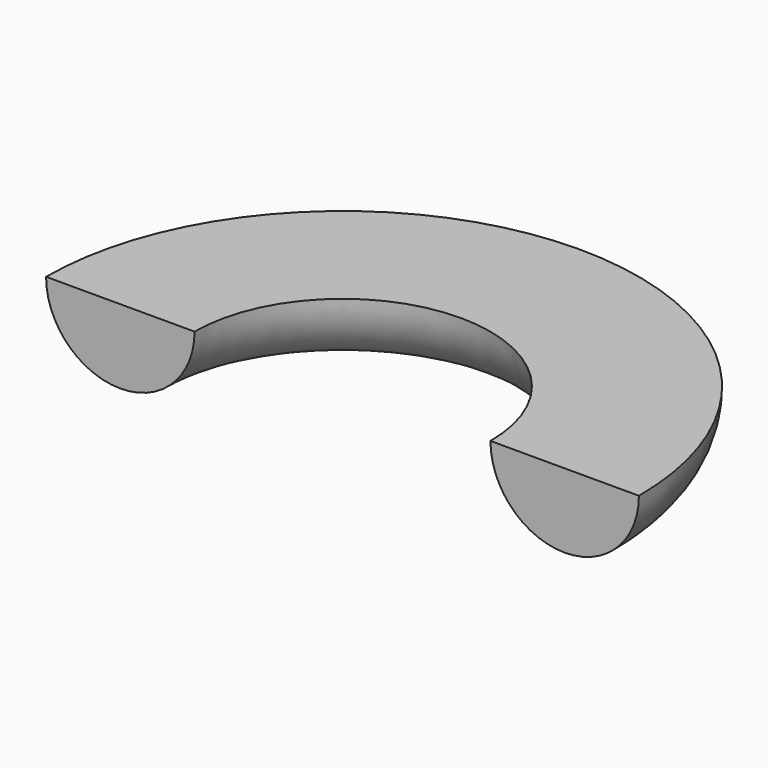
from build123d import *


with BuildPart() as f2:
    # F2: sweep along a path in F0
    with BuildLine(Plane.XY) as f2_path:
        ThreePointArc((-228.6, 0), (0, 228.6), (228.6, 0))
    # F1 (on Front) → F2 (sweep)
    with BuildSketch(Plane.XZ):
        with BuildLine():
            Line((-151.828491, 0), (-304.228491, 0))
            ThreePointArc((-304.228491, 0), (-228.028491, -76.2), (-151.828491, 0))
        make_face()
    sweep(path=f2_path.line)


solid = f2.part
